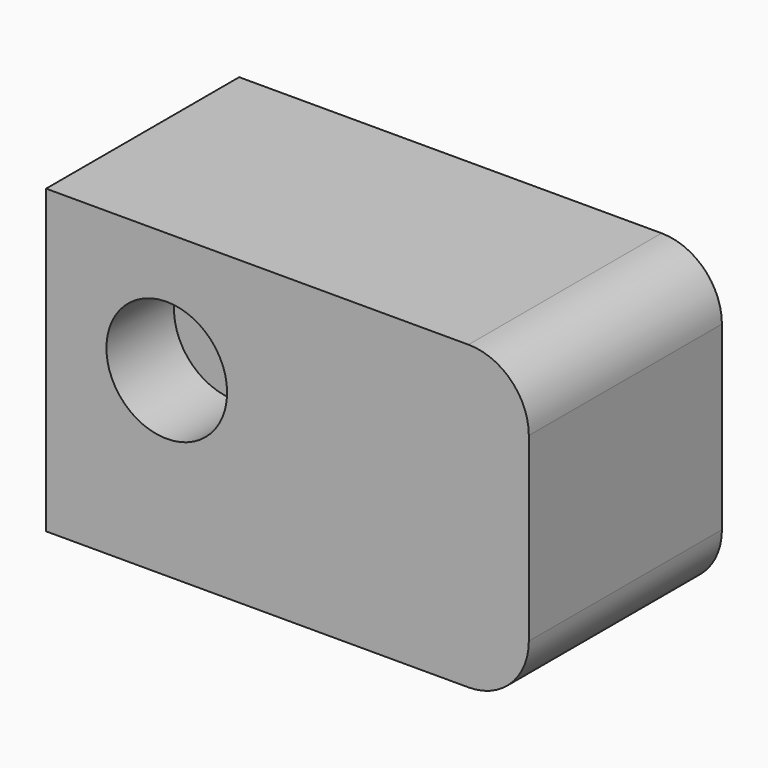
from build123d import *

# Parameters (mm, degrees)
SKETCH_W     = 80
SKETCH_H     = 50
PAD_DEPTH    = 40
SKETCH001_R  = 10
POCKET_DEPTH = 14
FILLET_R     = 10


with BuildPart() as part:
    # Sketch → Pad (new body)
    with BuildSketch(Plane.XZ):
        Rectangle(SKETCH_W, SKETCH_H)
    extrude(amount=-PAD_DEPTH)

    # Sketch001 → Pocket (cut)
    with BuildSketch(Plane.XZ):
        with Locations((-20, 5)):
            Circle(SKETCH001_R)
    extrude(amount=-POCKET_DEPTH, mode=Mode.SUBTRACT)

    # Fillet
    fillet_edges = [part.edges().sort_by_distance(p)[0] for p in [
        (40, 20, 25),
        (40, 20, -25),
    ]]
    fillet(fillet_edges, radius=FILLET_R)


solid = part.part
